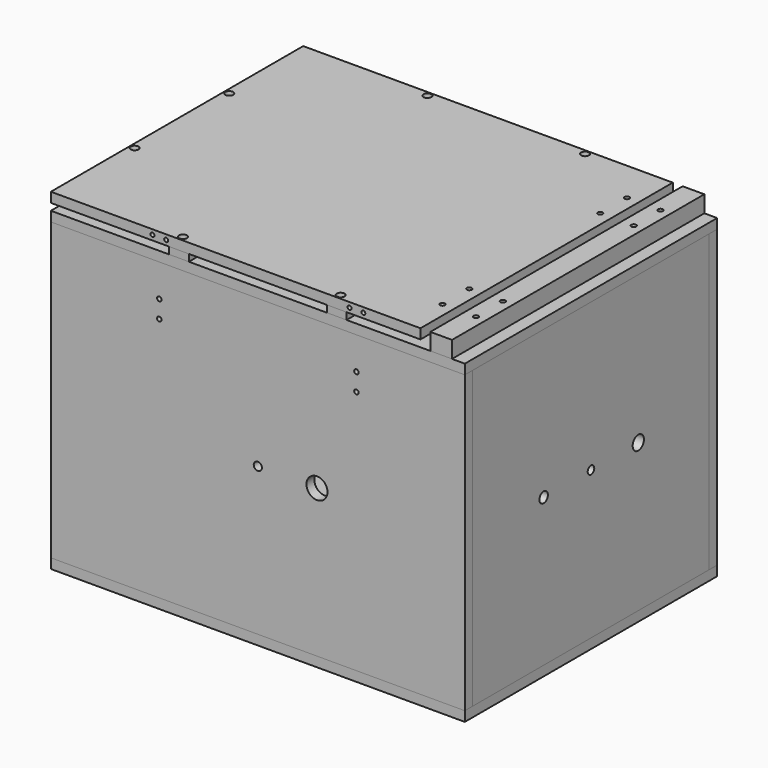
from build123d import *

# Parameters (mm, degrees)
F9_W      = 420
F9_H      = 320
F19_DEPTH = 10
F20_R     = 2.5
F21_DEPTH = 25
F24_DEPTH = 7
F11_W     = 375
F11_H     = 320
F11_R     = 2.5
F25_DEPTH = 10
F26_W     = 22
F26_H     = 320
F26_R     = 2.5
F27_DEPTH = 17
F28_R     = 3.4
F29_DEPTH = 10
F30_R     = 4
F31_DEPTH = 10
F32_W     = 20
F32_H     = 10
F32_R     = 4
F33_DEPTH = 7
F36_W     = 10
F36_H     = 20
F36_R     = 4
F37_DEPTH = 7
F16_W     = 420
F16_H     = 300
F16_R     = 10.668
F16_R_2   = 4.165
F16_R_3   = 2.25
F39_DEPTH = 10
F40_R     = 3.4
F41_DEPTH = 25
F42_R     = 2.25
F43_DEPTH = 10
F45_R     = 10.668
F46_DEPTH = 10
F47_R     = 2.015
F48_DEPTH = 15
F49_R     = 2.015
F50_DEPTH = 15
F51_R     = 2.015
F52_DEPTH = 15
F53_W     = 300
F53_H     = 300
F53_R     = 7.135
F53_R_2   = 2.25
F53_R_3   = 4.165
F53_R_4   = 5.36
F54_DEPTH = 10
F55_R     = 3.4
F56_DEPTH = 25
F57_W     = 420
F57_H     = 320
F58_DEPTH = 10
F60_W     = 300
F60_H     = 300
F60_R     = 7.135
F60_R_2   = 4.165
F60_R_3   = 5.36
F61_DEPTH = 10


with BuildPart() as f19:
    # F9 (on offset) → F19 (new body)
    with BuildSketch(Plane.XY.offset(150)):
        Rectangle(F9_W, F9_H)
        with BuildLine():
            Line((100, -130), (-160, -130))
            ThreePointArc((-160, -130), (-174.1421356237, -124.1421356237), (-180, -110))
            Line((-180, -110), (-180, 110))
            ThreePointArc((-180, 110), (-174.1421356237, 124.1421356237), (-160, 130))
            Line((-160, 130), (100, 130))
            ThreePointArc((100, 130), (114.1421356237, 124.1421356237), (120, 110))
            Line((120, 110), (120, -110))
            ThreePointArc((120, -110), (114.1421356237, -124.1421356237), (100, -130))
        make_face(mode=Mode.SUBTRACT)
    extrude(amount=F19_DEPTH)

    # F20 (on offset) → F21 (cut)
    with BuildSketch(Plane.XY.offset(150)):
        with Locations((187, 83)):
            Circle(F20_R)
        with Locations((187, 117)):
            Circle(F20_R)
        with Locations((187, -83)):
            Circle(F20_R)
        with Locations((187, -117)):
            Circle(F20_R)
    extrude(amount=F21_DEPTH, mode=Mode.SUBTRACT)

    # F28 (on offset) → F29 (cut)
    with BuildSketch(Plane.XY.offset(160)):
        with Locations((-80, -155)):
            Circle(F28_R)
        with Locations((80, -155)):
            Circle(F28_R)
        with Locations((-205, -60)):
            Circle(F28_R)
        with Locations((-205, 60)):
            Circle(F28_R)
        with Locations((-80, 155)):
            Circle(F28_R)
        with Locations((80, 155)):
            Circle(F28_R)
    extrude(amount=-F29_DEPTH, mode=Mode.SUBTRACT)


with BuildPart() as f24:
    # F23 (on offset) → F24 (new body)
    with BuildSketch(Plane.XY.offset(160)):
        with BuildLine():
            ThreePointArc((-160, 145), (-184.7487373415, 134.7487373415), (-195, 110))
            Line((-195, 110), (-195, -110))
            ThreePointArc((-195, -110), (-184.7487373415, -134.7487373415), (-160, -145))
            Line((-160, -145), (100, -145))
            ThreePointArc((100, -145), (124.7487373415, -134.7487373415), (135, -110))
            Line((135, -110), (135, 110))
            ThreePointArc((135, 110), (124.7487373415, 134.7487373415), (100, 145))
            Line((100, 145), (-160, 145))
        make_face()
        with BuildLine():
            Line((-185, -110), (-185, 110))
            ThreePointArc((-185, 110), (-177.6776695297, 127.6776695297), (-160, 135))
            Line((-160, 135), (100, 135))
            ThreePointArc((100, 135), (117.6776695297, 127.6776695297), (125, 110))
            Line((125, 110), (125, -110))
            ThreePointArc((125, -110), (117.6776695297, -127.6776695297), (100, -135))
            Line((100, -135), (-160, -135))
            ThreePointArc((-160, -135), (-177.6776695297, -127.6776695297), (-185, -110))
        make_face(mode=Mode.SUBTRACT)
    extrude(amount=F24_DEPTH)


with BuildPart() as f25:
    # F11 (on offset) → F25 (new body)
    with BuildSketch(Plane.XY.offset(167)):
        with Locations((-22.5, 0)):
            Rectangle(F11_W, F11_H)
        with Locations((153, -117)):
            Circle(F11_R, mode=Mode.SUBTRACT)
        with Locations((153, -83)):
            Circle(F11_R, mode=Mode.SUBTRACT)
        with Locations((153, 83)):
            Circle(F11_R, mode=Mode.SUBTRACT)
        with Locations((153, 117)):
            Circle(F11_R, mode=Mode.SUBTRACT)
    extrude(amount=F25_DEPTH)

    # F30 (on offset) → F31 (cut)
    with BuildSketch(Plane.XY.offset(167)):
        with Locations((-80, -155)):
            Circle(F30_R)
        with Locations((80, -155)):
            Circle(F30_R)
        with Locations((-205, -60)):
            Circle(F30_R)
        with Locations((-205, 60)):
            Circle(F30_R)
        with Locations((-80, 155)):
            Circle(F30_R)
        with Locations((80, 155)):
            Circle(F30_R)
    extrude(amount=F31_DEPTH, mode=Mode.SUBTRACT)

    # F47 (on line) → F48 (cut)
    with BuildSketch(Plane(origin=(0, -160, 0), x_dir=(-1, 0, 0), z_dir=(0, 1, 0))):
        with Locations((-93, 172)):
            Circle(F47_R)
        with Locations((-107, 172)):
            Circle(F47_R)
        with Locations((93, 172)):
            Circle(F47_R)
        with Locations((107, 172)):
            Circle(F47_R)
    extrude(amount=F48_DEPTH, mode=Mode.SUBTRACT)

    # F49 (on offset) → F50 (cut)
    with BuildSketch(Plane(origin=(-210, 0, 0), x_dir=(0, -1, 0), z_dir=(-1, 0, 0))):
        with Locations((87, 172)):
            Circle(F49_R)
        with Locations((73, 172)):
            Circle(F49_R)
        with Locations((-73, 172)):
            Circle(F49_R)
        with Locations((-87, 172)):
            Circle(F49_R)
    extrude(amount=-F50_DEPTH, mode=Mode.SUBTRACT)

    # F51 (on face) → F52 (cut)
    with BuildSketch(Plane(origin=(0, 160, 0), x_dir=(-1, 0, 0), z_dir=(0, 1, 0))):
        with Locations((107, 172)):
            Circle(F51_R)
        with Locations((93, 172)):
            Circle(F51_R)
        with Locations((-93, 172)):
            Circle(F51_R)
        with Locations((-107, 172)):
            Circle(F51_R)
    extrude(amount=-F52_DEPTH, mode=Mode.SUBTRACT)


with BuildPart() as f27:
    # F26 (on offset) → F27 (new body)
    with BuildSketch(Plane.XY.offset(160)):
        with Locations((186, 0)):
            Rectangle(F26_W, F26_H)
        with Locations((187, -117)):
            Circle(F26_R, mode=Mode.SUBTRACT)
        with Locations((187, -83)):
            Circle(F26_R, mode=Mode.SUBTRACT)
        with Locations((187, 83)):
            Circle(F26_R, mode=Mode.SUBTRACT)
        with Locations((187, 117)):
            Circle(F26_R, mode=Mode.SUBTRACT)
    extrude(amount=F27_DEPTH)


with BuildPart() as f33:
    # F32 (on offset) → F33 (new body)
    with BuildSketch(Plane.XY.offset(160)):
        with Locations((80, -155)):
            Rectangle(F32_W, F32_H)
        with Locations((80, -155)):
            Circle(F32_R, mode=Mode.SUBTRACT)
    extrude(amount=F33_DEPTH)


with BuildPart() as f34_1:
    # F34: instance of F33
    add(f33.part.mirror(Plane.XZ))


with BuildPart() as f35_1:
    # F35: instance of F34_1
    add(f34_1.part.mirror(Plane.YZ))


with BuildPart() as f35_2:
    # F35: instance of F33
    add(f33.part.mirror(Plane.YZ))


with BuildPart() as f37:
    # F36 (on offset) → F37 (new body)
    with BuildSketch(Plane.XY.offset(160)):
        with Locations((-205, -60)):
            Rectangle(F36_W, F36_H)
        with Locations((-205, -60)):
            Circle(F36_R, mode=Mode.SUBTRACT)
    extrude(amount=F37_DEPTH)


with BuildPart() as f38_1:
    # F38: instance of F37
    add(f37.part.mirror(Plane.XZ))


with BuildPart() as f39:
    # F16 (on line) → F39 (new body)
    with BuildSketch(Plane(origin=(0, -160, 0), x_dir=(-1, 0, 0), z_dir=(0, 1, 0))):
        Rectangle(F16_W, F16_H)
        with Locations((-60, 0)):
            Circle(F16_R, mode=Mode.SUBTRACT)
        Circle(F16_R_2, mode=Mode.SUBTRACT)
        with Locations((-100, 99)):
            Circle(F16_R_3, mode=Mode.SUBTRACT)
        with Locations((-100, 117)):
            Circle(F16_R_3, mode=Mode.SUBTRACT)
        with Locations((100, 99)):
            Circle(F16_R_3, mode=Mode.SUBTRACT)
        with Locations((100, 117)):
            Circle(F16_R_3, mode=Mode.SUBTRACT)
        with Locations((100, 117)):
            Circle(F16_R_3)
        with Locations((100, 99)):
            Circle(F16_R_3)
        with Locations((-100, 117)):
            Circle(F16_R_3)
        with Locations((-100, 99)):
            Circle(F16_R_3)
    extrude(amount=F39_DEPTH)

    # F40 (on offset) → F41 (cut)
    with BuildSketch(Plane.XY.offset(150)):
        with Locations((-80, -155)):
            Circle(F40_R)
        with Locations((80, -155)):
            Circle(F40_R)
    extrude(amount=-F41_DEPTH, mode=Mode.SUBTRACT)

    # F42 (on line) → F43 (cut)
    with BuildSketch(Plane(origin=(0, -160, 0), x_dir=(-1, 0, 0), z_dir=(0, 1, 0))):
        with Locations((100, 117)):
            Circle(F42_R)
        with Locations((100, 99)):
            Circle(F42_R)
        with Locations((-100, 117)):
            Circle(F42_R)
        with Locations((-100, 99)):
            Circle(F42_R)
    extrude(amount=F43_DEPTH, mode=Mode.SUBTRACT)


with BuildPart() as f44_1:
    # F44: instance of F39
    add(f39.part.mirror(Plane.XZ))

    # F45 (on face) → F46 (join)
    with BuildSketch(Plane(origin=(0, 160, 0), x_dir=(-1, 0, 0), z_dir=(0, 1, 0))):
        with Locations((-60, 0)):
            Circle(F45_R)
    extrude(amount=-F46_DEPTH)


with BuildPart() as f54:
    # F53 (on offset) → F54 (new body)
    with BuildSketch(Plane(origin=(-210, 0, 0), x_dir=(0, -1, 0), z_dir=(-1, 0, 0))):
        Rectangle(F53_W, F53_H)
        with Locations((-60, 0)):
            Circle(F53_R, mode=Mode.SUBTRACT)
        with Locations((-80, 99)):
            Circle(F53_R_2, mode=Mode.SUBTRACT)
        with Locations((-80, 117)):
            Circle(F53_R_2, mode=Mode.SUBTRACT)
        Circle(F53_R_3, mode=Mode.SUBTRACT)
        with Locations((60, 0)):
            Circle(F53_R_4, mode=Mode.SUBTRACT)
        with Locations((80, 99)):
            Circle(F53_R_2, mode=Mode.SUBTRACT)
        with Locations((80, 117)):
            Circle(F53_R_2, mode=Mode.SUBTRACT)
    extrude(amount=-F54_DEPTH)

    # F55 (on offset) → F56 (cut)
    with BuildSketch(Plane.XY.offset(150)):
        with Locations((-205, 60)):
            Circle(F55_R)
        with Locations((-205, -60)):
            Circle(F55_R)
    extrude(amount=-F56_DEPTH, mode=Mode.SUBTRACT)


with BuildPart() as f58:
    # F57 (on face) → F58 (new body)
    with BuildSketch(Plane.XY.offset(-150)):
        Rectangle(F57_W, F57_H)
    extrude(amount=-F58_DEPTH)


with BuildPart() as f61:
    # F60 (on line) → F61 (new body)
    with BuildSketch(Plane(origin=(200, 0, 0), x_dir=(0, -1, 0), z_dir=(-1, 0, 0))):
        Rectangle(F60_W, F60_H)
        with Locations((-60, 0)):
            Circle(F60_R, mode=Mode.SUBTRACT)
        Circle(F60_R_2, mode=Mode.SUBTRACT)
        with Locations((60, 0)):
            Circle(F60_R_3, mode=Mode.SUBTRACT)
    extrude(amount=-F61_DEPTH)


solid = Compound([f19.part, f24.part, f25.part, f27.part, f33.part, f34_1.part, f35_1.part, f35_2.part, f37.part, f38_1.part, f39.part, f44_1.part, f54.part, f58.part, f61.part])
